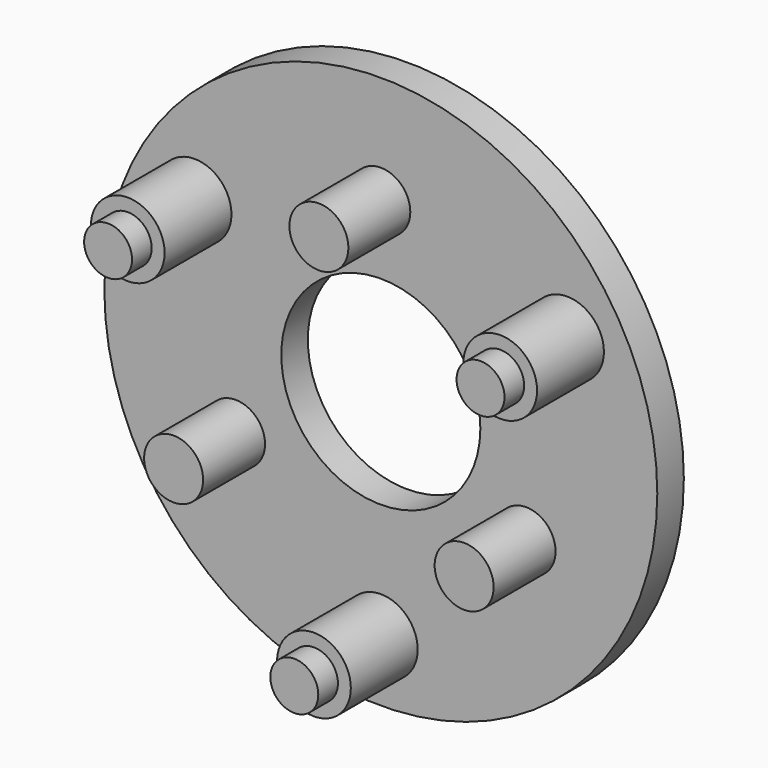
from build123d import *

# Parameters (mm, degrees)
F0_R      = 22.5
F0_R_2    = 8.1
F1_DEPTH  = 2.7
F2_R      = 2.4
F3_DEPTH  = 6.3
F4_R      = 3
F5_DEPTH  = 6.8
F6_R      = 1.95
F7_R      = 1.95
F8_R      = 1.95
F9_DEPTH  = 2
F10_R     = 19.95
F10_R_2   = 19.05
F11_DEPTH = 0.8


with BuildPart() as f1:
    # F0 (on Front) → F1 (new body)
    with BuildSketch(Plane.XZ):
        Circle(F0_R)
        Circle(F0_R_2, mode=Mode.SUBTRACT)
    extrude(amount=F1_DEPTH)

    # F2 (on face) → F3 (join)
    with BuildSketch(Plane.XZ.offset(2.7)):
        with Locations((0, 13.65)):
            Circle(F2_R)
        with Locations((-11.821247, -6.825)):
            Circle(F2_R)
        with Locations((11.821247, -6.825)):
            Circle(F2_R)
    extrude(amount=F3_DEPTH)

    # F4 (on face) → F5 (join)
    with BuildSketch(Plane.XZ.offset(2.7)):
        with Locations((0, -17.5)):
            Circle(F4_R)
        with Locations((15.155445, 8.75)):
            Circle(F4_R)
        with Locations((-15.155445, 8.75)):
            Circle(F4_R)
    extrude(amount=F5_DEPTH)

    # F6 (on face) + F7 (on face) + F8 (on face) → F9 (join)
    with BuildSketch(Plane.XZ.offset(9.5)):
        with Locations((0, -17.5)):
            Circle(F6_R)
    with BuildSketch(Plane.XZ.offset(9.5)):
        with Locations((-15.155445, 8.75)):
            Circle(F7_R)
    with BuildSketch(Plane.XZ.offset(9.5)):
        with Locations((15.155445, 8.75)):
            Circle(F8_R)
    extrude(amount=F9_DEPTH)

    # F10 (on face) → F11 (join)
    with BuildSketch(Plane(origin=(0, 0, 0), x_dir=(-1, 0, 0), z_dir=(0, 1, 0))):
        Circle(F10_R)
        Circle(F10_R_2, mode=Mode.SUBTRACT)
    extrude(amount=F11_DEPTH)


solid = f1.part
